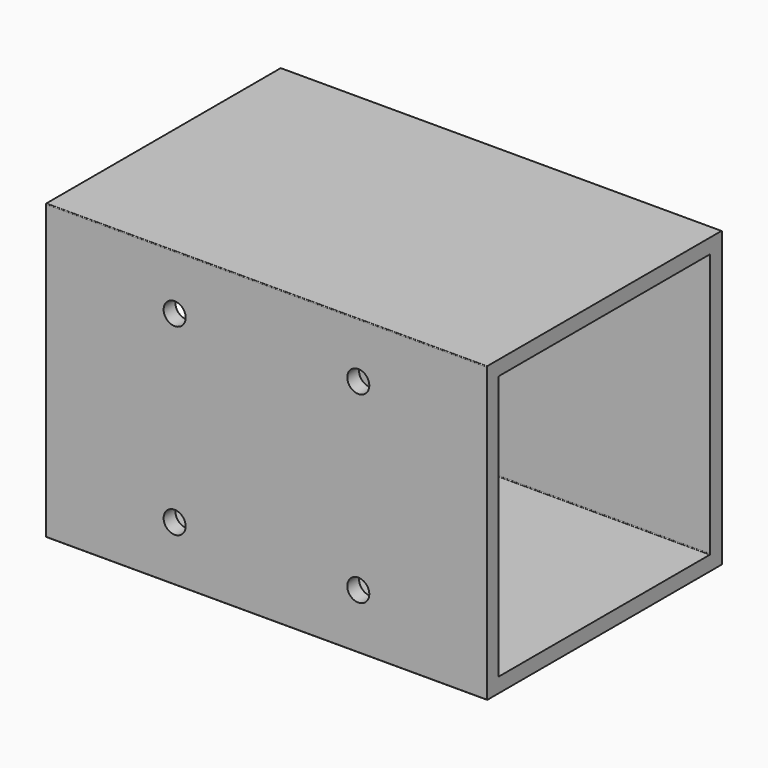
from build123d import *

# Parameters (mm, degrees)
F0_W     = 40
F0_H     = 40
F1_DEPTH = 60
F2_T     = -2
F4_D     = 3
F4_DEPTH = 2
F4_TIP   = 0.9012909285
F5_R     = 0.1
F6_R     = 0.1
F8_D     = 3
F8_DEPTH = 2
F8_TIP   = 0.9012909285


with BuildPart() as f1:
    # F0 (on Right) → F1 (new body)
    with BuildSketch(Plane.YZ):
        Rectangle(F0_W, F0_H)
    extrude(amount=F1_DEPTH)

    # F2
    f2_openings = [f1.faces().sort_by_distance(p)[0] for p in [
        (60, 0, 0),
        (0, 0, 0),
    ]]
    offset(amount=F2_T, openings=f2_openings)

    # F4
    with Locations(Plane.XZ.offset(20)):
        with Locations((17.5, 12.5), (42.5, 12.5), (42.5, -12.5), (17.5, -12.5)):
            Hole(F4_D / 2, depth=F4_DEPTH)
            with Locations((0, 0, -(F4_DEPTH + F4_TIP / 2))):  # 118° drill point
                Cone(0, F4_D / 2, F4_TIP, mode=Mode.SUBTRACT)

    # F5
    f5_edges = [f1.edges().sort_by_distance(p)[0] for p in [
        (30, -20, 20),
        (30, 20, 20),
        (30, -20, -20),
        (30, 20, -20),
    ]]
    fillet(f5_edges, radius=F5_R)

    # F6
    f6_edges = [f1.edges().sort_by_distance(p)[0] for p in [
        (30, -18, 18),
        (30, 18, 18),
        (30, -18, -18),
        (30, 18, -18),
    ]]
    fillet(f6_edges, radius=F6_R)

    # F8
    with Locations(Plane(origin=(0, 20, 0), x_dir=(-1, 0, 0), z_dir=(0, 1, 0))):
        with Locations((-39, 12), (-21, -12)):
            Hole(F8_D / 2, depth=F8_DEPTH)
            with Locations((0, 0, -(F8_DEPTH + F8_TIP / 2))):  # 118° drill point
                Cone(0, F8_D / 2, F8_TIP, mode=Mode.SUBTRACT)


solid = f1.part
